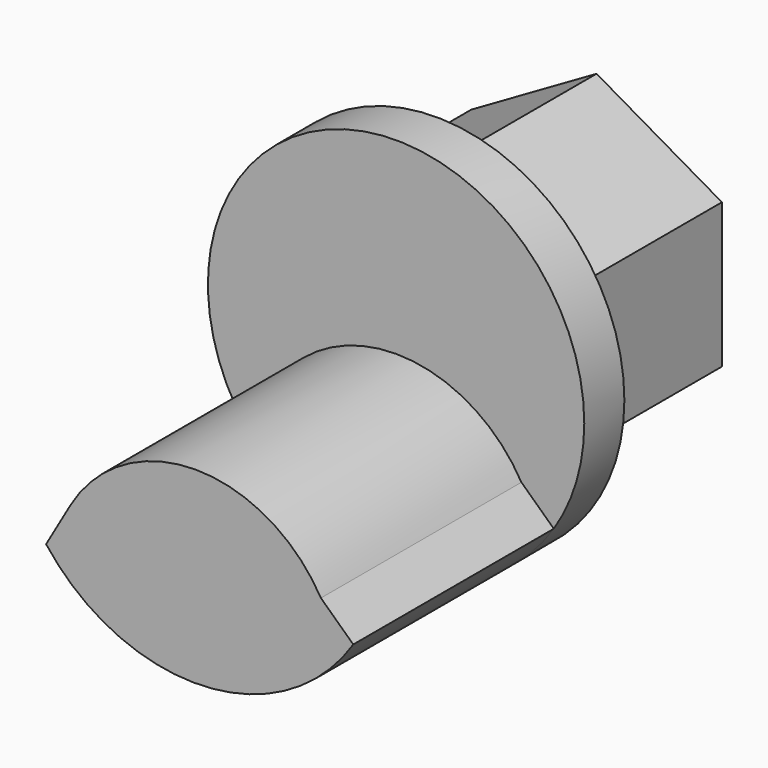
from build123d import *

# Parameters (mm, degrees)
F1_DEPTH = 10
F3_DEPTH = 10
F4_R     = 7.5080974038
F5_DEPTH = 2
F7_DEPTH = 10


with BuildPart() as f1:
    # F0 (on Front) → F1 (new body)
    with BuildSketch(Plane.XZ):
        Polygon((5, 2.8867513459), (0, 5.7735026919), (-5, 2.8867513459), (-5, -2.8867513459), (0, -5.7735026919), (5, -2.8867513459), align=None)
    extrude(amount=F1_DEPTH)

    # F2 (on face) → F3 (join)
    with BuildSketch(Plane.XZ.offset(10)):
        with BuildLine():
            Line((0, -5.7735026919), (5, -2.8867513459))
            ThreePointArc((5, -2.8867513459), (0, 0), (-5, -2.8867513459))
            Line((-5, -2.8867513459), (0, -5.7735026919))
        make_face()
    extrude(amount=F3_DEPTH)

    # F4 (on face) → F5 (join)
    with BuildSketch(Plane.XZ.offset(10)):
        Circle(F4_R)
        with BuildLine():
            ThreePointArc((5, -2.8867513459), (0, 0), (-5, -2.8867513459))
            Line((-5, -2.8867513459), (-5, 2.8867513459))
            Line((-5, 2.8867513459), (0, 5.7735026919))
            Line((0, 5.7735026919), (5, 2.8867513459))
            Line((5, 2.8867513459), (5, -2.8867513459))
        make_face(mode=Mode.SUBTRACT)
    extrude(amount=-F5_DEPTH)

    # F6 (on face) → F7 (join, through all)
    with BuildSketch(Plane.XZ.offset(10)):
        with BuildLine():
            Line((0, -5.7735026919), (-5, -2.8867513459))
            Line((-5, -2.8867513459), (-5.9654795228, -4.5590109331))
            ThreePointArc((-5.9654795228, -4.5590109331), (0.28281982, -7.5027687939), (6.2917700935, -4.0969690889))
            Line((6.2917700935, -4.0969690889), (5, -2.8867513459))
            Line((5, -2.8867513459), (0, -5.7735026919))
        make_face()
    extrude(amount=F7_DEPTH)


solid = f1.part
